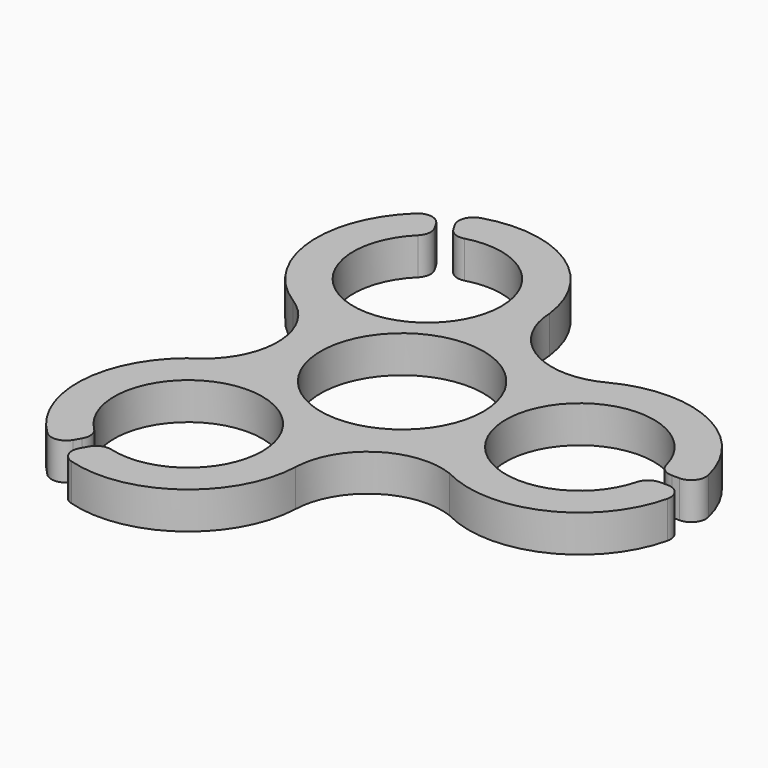
from build123d import *

# Parameters (mm, degrees)
F0_R     = 11
F1_DEPTH = 5


with BuildPart() as f1:
    # F0 (on Top) → F1 (new body)
    with BuildSketch(Plane.XY):
        with BuildLine():
            ThreePointArc((33.682458, -2.5), (14, 0), (33.682458, 2.5))
            ThreePointArc((33.682458, 2.5), (34.394205, 1.418861), (35.61895, 1))
            Line((35.61895, 1), (36.649111, 1))
            ThreePointArc((36.649111, 1), (38.21804, 1.759653), (38.595128, 3.461538))
            ThreePointArc((38.595128, 3.461538), (30.240785, 13.64011), (17.076923, 13.306803))
            ThreePointArc((17.076923, 13.306803), (7.430987, 13.535462), (2.468312, 21.810015))
            ThreePointArc((2.468312, 21.810015), (-4.273896, 32.573046), (-16.855466, 34.306331))
            ThreePointArc((-16.855466, 34.306331), (-18.126104, 33.125515), (-17.996029, 31.395797))
            Line((-17.996029, 31.395797), (-17.480949, 30.503651))
            ThreePointArc((-17.480949, 30.503651), (-16.505832, 29.652422), (-15.213665, 29.5766))
            ThreePointArc((-15.213665, 29.5766), (-7.537499, 11.281092), (-19.543792, 27.0766))
            ThreePointArc((-19.543792, 27.0766), (-18.963372, 28.233561), (-19.213, 29.503651))
            Line((-19.213, 29.503651), (-19.72808, 30.395797))
            ThreePointArc((-19.72808, 30.395797), (-21.170423, 31.374703), (-22.832843, 30.850328))
            ThreePointArc((-22.832843, 30.850328), (-27.470574, 18.525969), (-20.59999, 7.292384))
            ThreePointArc((-20.59999, 7.292384), (-15.870723, -0.606189), (-19.600953, -9.022768))
            ThreePointArc((-19.600953, -9.022768), (-26.471536, -20.256353), (-21.833806, -32.580712))
            ThreePointArc((-21.833806, -32.580712), (-20.171385, -33.105087), (-18.729042, -32.126181))
            Line((-18.729042, -32.126181), (-18.213962, -31.234036))
            ThreePointArc((-18.213962, -31.234036), (-17.964334, -29.963945), (-18.544754, -28.806985))
            ThreePointArc((-18.544754, -28.806985), (-6.538462, -13.011476), (-14.214627, -31.306985))
            ThreePointArc((-14.214627, -31.306985), (-15.506794, -31.382806), (-16.481911, -32.234036))
            Line((-16.481911, -32.234036), (-16.996991, -33.126181))
            ThreePointArc((-16.996991, -33.126181), (-17.123577, -34.86474), (-15.838245, -36.04225))
            ThreePointArc((-15.838245, -36.04225), (-2.846172, -33.896463), (3.447106, -22.329571))
            ThreePointArc((3.447106, -22.329571), (7.922837, -14.284619), (17.076923, -13.306803))
            ThreePointArc((17.076923, -13.306803), (30.240785, -13.64011), (38.595128, -3.461538))
            ThreePointArc((38.595128, -3.461538), (38.21804, -1.759653), (36.649111, -1))
            Line((36.649111, -1), (35.61895, -1))
            ThreePointArc((35.61895, -1), (34.394205, -1.418861), (33.682458, -2.5))
        make_face()
        Circle(F0_R, mode=Mode.SUBTRACT)
    extrude(amount=F1_DEPTH)


solid = f1.part
